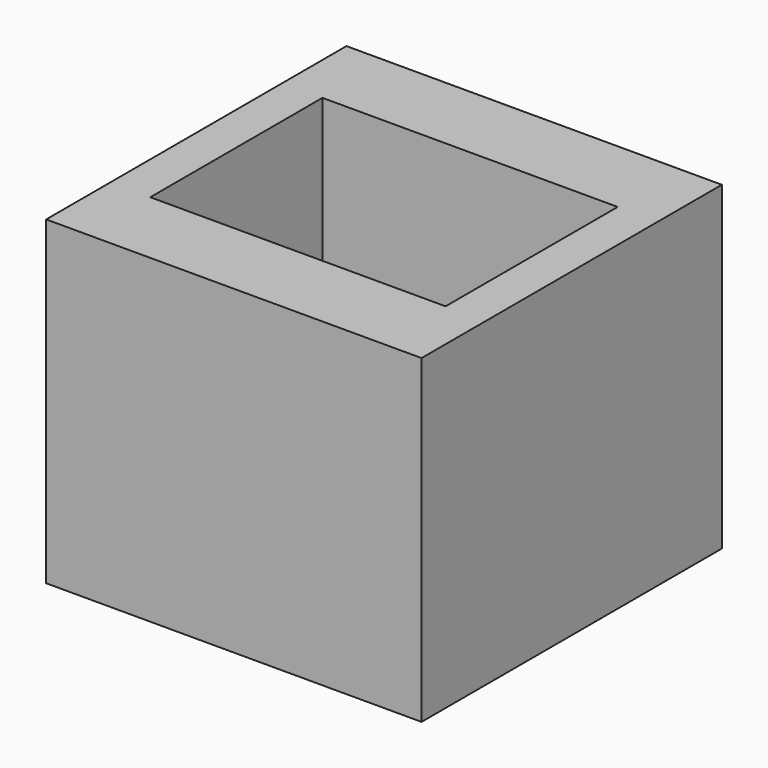
from build123d import *

# Parameters (mm, degrees)
F0_W     = 3.75
F0_H     = 3.75
F0_W_2   = 2.95
F0_H_2   = 2.15
F1_DEPTH = 3.2
F2_DEPTH = 0.5


with BuildPart() as f1:
    # F0 (on Top) → F1 (new body)
    with BuildSketch(Plane.XY):
        Rectangle(F0_W, F0_H)
        Rectangle(F0_W_2, F0_H_2, mode=Mode.SUBTRACT)
        Rectangle(F0_W, F0_H)
        Rectangle(F0_W_2, F0_H_2, mode=Mode.SUBTRACT)
    extrude(amount=F1_DEPTH)

    # F0 (on Top) → F2 (join)
    with BuildSketch(Plane.XY):
        Rectangle(F0_W_2, F0_H_2)
    extrude(amount=F2_DEPTH)


solid = f1.part
